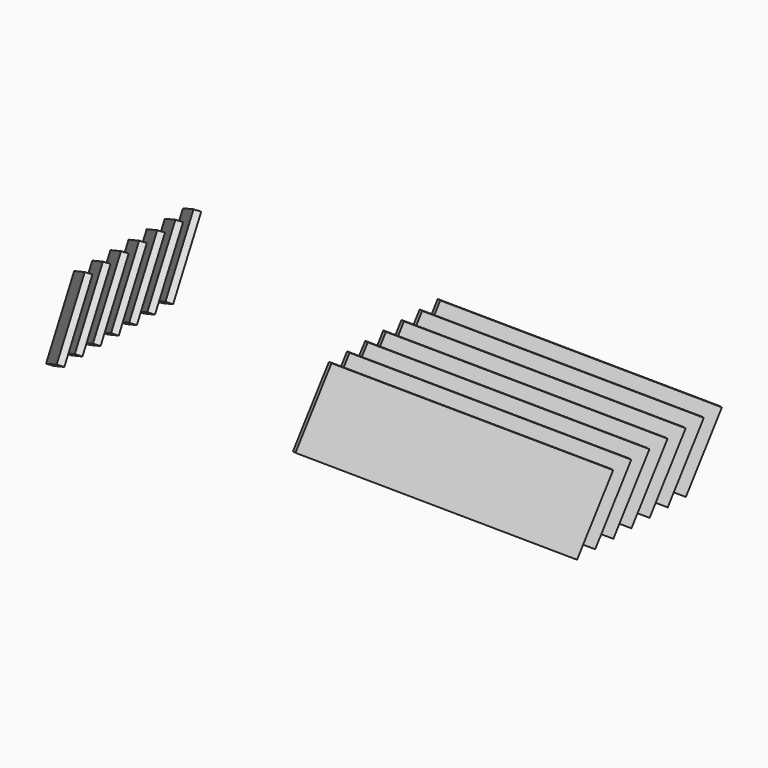
from build123d import *

# Parameters (mm, degrees)
BOX036_W               = 30
BOX036_H               = 2.5
BOX036_DEPTH           = 100
BOX036_ROLL_ANGLE      = 30.72405
BOX036_PITCH_ANGLE     = 57.751092
BOX036_PLACEMENT_ANGLE = -95.67779
BOX037_W               = 30
BOX037_H               = 2.5
BOX037_DEPTH           = 100
BOX037_ROLL_ANGLE      = 30.72405
BOX037_PITCH_ANGLE     = 57.751092
BOX037_PLACEMENT_ANGLE = -95.67779
BOX038_W               = 30
BOX038_H               = 2.5
BOX038_DEPTH           = 100
BOX038_ROLL_ANGLE      = 30.72405
BOX038_PITCH_ANGLE     = 57.751092
BOX038_PLACEMENT_ANGLE = -95.67779
BOX039_W               = 30
BOX039_H               = 2.5
BOX039_DEPTH           = 100
BOX039_ROLL_ANGLE      = 30.72405
BOX039_PITCH_ANGLE     = 57.751092
BOX039_PLACEMENT_ANGLE = -95.67779
BOX040_W               = 30
BOX040_H               = 2.5
BOX040_DEPTH           = 100
BOX040_ROLL_ANGLE      = 30.72405
BOX040_PITCH_ANGLE     = 57.751092
BOX040_PLACEMENT_ANGLE = -95.67779
BOX041_W               = 30
BOX041_H               = 2.5
BOX041_DEPTH           = 100
BOX041_ROLL_ANGLE      = 30.72405
BOX041_PITCH_ANGLE     = 57.751092
BOX041_PLACEMENT_ANGLE = -95.67779
BOX035_W               = 30
BOX035_H               = 2.5
BOX035_DEPTH           = 100
BOX035_ROLL_ANGLE      = 30.72405
BOX035_PITCH_ANGLE     = 57.751092
BOX035_PLACEMENT_ANGLE = -95.67779
BOX015_W               = 30
BOX015_H               = 2.5
BOX015_DEPTH           = 100
BOX015_ROLL_ANGLE      = 30.72405
BOX015_PITCH_ANGLE     = 57.751092
BOX015_PLACEMENT_ANGLE = -95.67779
BOX016_W               = 30
BOX016_H               = 2.5
BOX016_DEPTH           = 100
BOX016_ROLL_ANGLE      = 30.72405
BOX016_PITCH_ANGLE     = 57.751092
BOX016_PLACEMENT_ANGLE = -95.67779
BOX017_W               = 30
BOX017_H               = 2.5
BOX017_DEPTH           = 100
BOX017_ROLL_ANGLE      = 30.72405
BOX017_PITCH_ANGLE     = 57.751092
BOX017_PLACEMENT_ANGLE = -95.67779
BOX018_W               = 30
BOX018_H               = 2.5
BOX018_DEPTH           = 100
BOX018_ROLL_ANGLE      = 30.72405
BOX018_PITCH_ANGLE     = 57.751092
BOX018_PLACEMENT_ANGLE = -95.67779
BOX019_W               = 30
BOX019_H               = 2.5
BOX019_DEPTH           = 100
BOX019_ROLL_ANGLE      = 30.72405
BOX019_PITCH_ANGLE     = 57.751092
BOX019_PLACEMENT_ANGLE = -95.67779
BOX020_W               = 30
BOX020_H               = 2.5
BOX020_DEPTH           = 100
BOX020_ROLL_ANGLE      = 30.72405
BOX020_PITCH_ANGLE     = 57.751092
BOX020_PLACEMENT_ANGLE = -95.67779
BOX014_W               = 30
BOX014_H               = 2.5
BOX014_DEPTH           = 100
BOX014_ROLL_ANGLE      = 30.72405
BOX014_PITCH_ANGLE     = 57.751092
BOX014_PLACEMENT_ANGLE = -95.67779


with BuildPart() as cube036:
    # Box036 → Box036 (new body)
    with BuildSketch(Plane.XY):
        with Locations((15, 1.25)):
            Rectangle(BOX036_W, BOX036_H)
    extrude(amount=BOX036_DEPTH)


with BuildPart() as cube036_1:
    # Box036 roll: moved
    add(cube036.part.rotate(Axis((0, 0, 0), (1, 0, 0)), BOX036_ROLL_ANGLE))


with BuildPart() as cube036_2:
    # Box036 pitch: moved
    add(cube036_1.part.rotate(Axis((0, 0, 0), (0, 1, 0)), BOX036_PITCH_ANGLE))


with BuildPart() as cube036_3:
    # Box036 placement: moved
    add(cube036_2.part.moved(Location((105, 186, 0))).rotate(Axis((105, 186, 0), (0, 0, 1)), BOX036_PLACEMENT_ANGLE))


with BuildPart() as cube037:
    # Box037 → Box037 (new body)
    with BuildSketch(Plane.XY):
        with Locations((15, 1.25)):
            Rectangle(BOX037_W, BOX037_H)
    extrude(amount=BOX037_DEPTH)


with BuildPart() as cube037_1:
    # Box037 roll: moved
    add(cube037.part.rotate(Axis((0, 0, 0), (1, 0, 0)), BOX037_ROLL_ANGLE))


with BuildPart() as cube037_2:
    # Box037 pitch: moved
    add(cube037_1.part.rotate(Axis((0, 0, 0), (0, 1, 0)), BOX037_PITCH_ANGLE))


with BuildPart() as cube037_3:
    # Box037 placement: moved
    add(cube037_2.part.moved(Location((105, 195, 0))).rotate(Axis((105, 195, 0), (0, 0, 1)), BOX037_PLACEMENT_ANGLE))


with BuildPart() as cube038:
    # Box038 → Box038 (new body)
    with BuildSketch(Plane.XY):
        with Locations((15, 1.25)):
            Rectangle(BOX038_W, BOX038_H)
    extrude(amount=BOX038_DEPTH)


with BuildPart() as cube038_1:
    # Box038 roll: moved
    add(cube038.part.rotate(Axis((0, 0, 0), (1, 0, 0)), BOX038_ROLL_ANGLE))


with BuildPart() as cube038_2:
    # Box038 pitch: moved
    add(cube038_1.part.rotate(Axis((0, 0, 0), (0, 1, 0)), BOX038_PITCH_ANGLE))


with BuildPart() as cube038_3:
    # Box038 placement: moved
    add(cube038_2.part.moved(Location((105, 204, 0))).rotate(Axis((105, 204, 0), (0, 0, 1)), BOX038_PLACEMENT_ANGLE))


with BuildPart() as cube039:
    # Box039 → Box039 (new body)
    with BuildSketch(Plane.XY):
        with Locations((15, 1.25)):
            Rectangle(BOX039_W, BOX039_H)
    extrude(amount=BOX039_DEPTH)


with BuildPart() as cube039_1:
    # Box039 roll: moved
    add(cube039.part.rotate(Axis((0, 0, 0), (1, 0, 0)), BOX039_ROLL_ANGLE))


with BuildPart() as cube039_2:
    # Box039 pitch: moved
    add(cube039_1.part.rotate(Axis((0, 0, 0), (0, 1, 0)), BOX039_PITCH_ANGLE))


with BuildPart() as cube039_3:
    # Box039 placement: moved
    add(cube039_2.part.moved(Location((105, 213, 0))).rotate(Axis((105, 213, 0), (0, 0, 1)), BOX039_PLACEMENT_ANGLE))


with BuildPart() as cube040:
    # Box040 → Box040 (new body)
    with BuildSketch(Plane.XY):
        with Locations((15, 1.25)):
            Rectangle(BOX040_W, BOX040_H)
    extrude(amount=BOX040_DEPTH)


with BuildPart() as cube040_1:
    # Box040 roll: moved
    add(cube040.part.rotate(Axis((0, 0, 0), (1, 0, 0)), BOX040_ROLL_ANGLE))


with BuildPart() as cube040_2:
    # Box040 pitch: moved
    add(cube040_1.part.rotate(Axis((0, 0, 0), (0, 1, 0)), BOX040_PITCH_ANGLE))


with BuildPart() as cube040_3:
    # Box040 placement: moved
    add(cube040_2.part.moved(Location((105, 222, 0))).rotate(Axis((105, 222, 0), (0, 0, 1)), BOX040_PLACEMENT_ANGLE))


with BuildPart() as cube041:
    # Box041 → Box041 (new body)
    with BuildSketch(Plane.XY):
        with Locations((15, 1.25)):
            Rectangle(BOX041_W, BOX041_H)
    extrude(amount=BOX041_DEPTH)


with BuildPart() as cube041_1:
    # Box041 roll: moved
    add(cube041.part.rotate(Axis((0, 0, 0), (1, 0, 0)), BOX041_ROLL_ANGLE))


with BuildPart() as cube041_2:
    # Box041 pitch: moved
    add(cube041_1.part.rotate(Axis((0, 0, 0), (0, 1, 0)), BOX041_PITCH_ANGLE))


with BuildPart() as cube041_3:
    # Box041 placement: moved
    add(cube041_2.part.moved(Location((105, 231, 0))).rotate(Axis((105, 231, 0), (0, 0, 1)), BOX041_PLACEMENT_ANGLE))


with BuildPart() as vent005:
    # Box035 → Box035 (new body)
    with BuildSketch(Plane.XY):
        with Locations((15, 1.25)):
            Rectangle(BOX035_W, BOX035_H)
    extrude(amount=BOX035_DEPTH)


with BuildPart() as vent005_1:
    # Box035 roll: moved
    add(vent005.part.rotate(Axis((0, 0, 0), (1, 0, 0)), BOX035_ROLL_ANGLE))


with BuildPart() as vent005_2:
    # Box035 pitch: moved
    add(vent005_1.part.rotate(Axis((0, 0, 0), (0, 1, 0)), BOX035_PITCH_ANGLE))


with BuildPart() as vent005_3:
    # Box035 placement: moved
    add(vent005_2.part.moved(Location((105, 177, 0))).rotate(Axis((105, 177, 0), (0, 0, 1)), BOX035_PLACEMENT_ANGLE))

    # Fusion008: union Cube036, Cube037, Cube038, Cube039, Cube040, Cube041
    add(cube036_3.part)
    add(cube037_3.part)
    add(cube038_3.part)
    add(cube039_3.part)
    add(cube040_3.part)
    add(cube041_3.part)


with BuildPart() as vent005_4:
    # Fusion008 placement: moved
    add(vent005_3.part.moved(Location((0, 196, 11))))


with BuildPart() as part_mirroring002:
    # Part__Mirroring002: instance of Vent005
    add(vent005_4.part.mirror(Plane(origin=(0, 0, 0), x_dir=(0, -1, 0), z_dir=(1, 0, 0))))


with BuildPart() as cube015:
    # Box015 → Box015 (new body)
    with BuildSketch(Plane.XY):
        with Locations((15, 1.25)):
            Rectangle(BOX015_W, BOX015_H)
    extrude(amount=BOX015_DEPTH)


with BuildPart() as cube015_1:
    # Box015 roll: moved
    add(cube015.part.rotate(Axis((0, 0, 0), (1, 0, 0)), BOX015_ROLL_ANGLE))


with BuildPart() as cube015_2:
    # Box015 pitch: moved
    add(cube015_1.part.rotate(Axis((0, 0, 0), (0, 1, 0)), BOX015_PITCH_ANGLE))


with BuildPart() as cube015_3:
    # Box015 placement: moved
    add(cube015_2.part.moved(Location((105, 186, 0))).rotate(Axis((105, 186, 0), (0, 0, 1)), BOX015_PLACEMENT_ANGLE))


with BuildPart() as cube016:
    # Box016 → Box016 (new body)
    with BuildSketch(Plane.XY):
        with Locations((15, 1.25)):
            Rectangle(BOX016_W, BOX016_H)
    extrude(amount=BOX016_DEPTH)


with BuildPart() as cube016_1:
    # Box016 roll: moved
    add(cube016.part.rotate(Axis((0, 0, 0), (1, 0, 0)), BOX016_ROLL_ANGLE))


with BuildPart() as cube016_2:
    # Box016 pitch: moved
    add(cube016_1.part.rotate(Axis((0, 0, 0), (0, 1, 0)), BOX016_PITCH_ANGLE))


with BuildPart() as cube016_3:
    # Box016 placement: moved
    add(cube016_2.part.moved(Location((105, 195, 0))).rotate(Axis((105, 195, 0), (0, 0, 1)), BOX016_PLACEMENT_ANGLE))


with BuildPart() as cube017:
    # Box017 → Box017 (new body)
    with BuildSketch(Plane.XY):
        with Locations((15, 1.25)):
            Rectangle(BOX017_W, BOX017_H)
    extrude(amount=BOX017_DEPTH)


with BuildPart() as cube017_1:
    # Box017 roll: moved
    add(cube017.part.rotate(Axis((0, 0, 0), (1, 0, 0)), BOX017_ROLL_ANGLE))


with BuildPart() as cube017_2:
    # Box017 pitch: moved
    add(cube017_1.part.rotate(Axis((0, 0, 0), (0, 1, 0)), BOX017_PITCH_ANGLE))


with BuildPart() as cube017_3:
    # Box017 placement: moved
    add(cube017_2.part.moved(Location((105, 204, 0))).rotate(Axis((105, 204, 0), (0, 0, 1)), BOX017_PLACEMENT_ANGLE))


with BuildPart() as cube018:
    # Box018 → Box018 (new body)
    with BuildSketch(Plane.XY):
        with Locations((15, 1.25)):
            Rectangle(BOX018_W, BOX018_H)
    extrude(amount=BOX018_DEPTH)


with BuildPart() as cube018_1:
    # Box018 roll: moved
    add(cube018.part.rotate(Axis((0, 0, 0), (1, 0, 0)), BOX018_ROLL_ANGLE))


with BuildPart() as cube018_2:
    # Box018 pitch: moved
    add(cube018_1.part.rotate(Axis((0, 0, 0), (0, 1, 0)), BOX018_PITCH_ANGLE))


with BuildPart() as cube018_3:
    # Box018 placement: moved
    add(cube018_2.part.moved(Location((105, 213, 0))).rotate(Axis((105, 213, 0), (0, 0, 1)), BOX018_PLACEMENT_ANGLE))


with BuildPart() as cube019:
    # Box019 → Box019 (new body)
    with BuildSketch(Plane.XY):
        with Locations((15, 1.25)):
            Rectangle(BOX019_W, BOX019_H)
    extrude(amount=BOX019_DEPTH)


with BuildPart() as cube019_1:
    # Box019 roll: moved
    add(cube019.part.rotate(Axis((0, 0, 0), (1, 0, 0)), BOX019_ROLL_ANGLE))


with BuildPart() as cube019_2:
    # Box019 pitch: moved
    add(cube019_1.part.rotate(Axis((0, 0, 0), (0, 1, 0)), BOX019_PITCH_ANGLE))


with BuildPart() as cube019_3:
    # Box019 placement: moved
    add(cube019_2.part.moved(Location((105, 222, 0))).rotate(Axis((105, 222, 0), (0, 0, 1)), BOX019_PLACEMENT_ANGLE))


with BuildPart() as cube020:
    # Box020 → Box020 (new body)
    with BuildSketch(Plane.XY):
        with Locations((15, 1.25)):
            Rectangle(BOX020_W, BOX020_H)
    extrude(amount=BOX020_DEPTH)


with BuildPart() as cube020_1:
    # Box020 roll: moved
    add(cube020.part.rotate(Axis((0, 0, 0), (1, 0, 0)), BOX020_ROLL_ANGLE))


with BuildPart() as cube020_2:
    # Box020 pitch: moved
    add(cube020_1.part.rotate(Axis((0, 0, 0), (0, 1, 0)), BOX020_PITCH_ANGLE))


with BuildPart() as cube020_3:
    # Box020 placement: moved
    add(cube020_2.part.moved(Location((105, 231, 0))).rotate(Axis((105, 231, 0), (0, 0, 1)), BOX020_PLACEMENT_ANGLE))


with BuildPart() as vent03_both:
    # Box014 → Box014 (new body)
    with BuildSketch(Plane.XY):
        with Locations((15, 1.25)):
            Rectangle(BOX014_W, BOX014_H)
    extrude(amount=BOX014_DEPTH)


with BuildPart() as vent03_both_1:
    # Box014 roll: moved
    add(vent03_both.part.rotate(Axis((0, 0, 0), (1, 0, 0)), BOX014_ROLL_ANGLE))


with BuildPart() as vent03_both_2:
    # Box014 pitch: moved
    add(vent03_both_1.part.rotate(Axis((0, 0, 0), (0, 1, 0)), BOX014_PITCH_ANGLE))


with BuildPart() as vent03_both_3:
    # Box014 placement: moved
    add(vent03_both_2.part.moved(Location((105, 177, 0))).rotate(Axis((105, 177, 0), (0, 0, 1)), BOX014_PLACEMENT_ANGLE))

    # Fusion003: union Cube015, Cube016, Cube017, Cube018, Cube019, Cube020
    add(cube015_3.part)
    add(cube016_3.part)
    add(cube017_3.part)
    add(cube018_3.part)
    add(cube019_3.part)
    add(cube020_3.part)


with BuildPart() as vent03_both_4:
    # Fusion003 placement: moved
    add(vent03_both_3.part.moved(Location((0, 196, 11))))

    # Fusion009: union Part__Mirroring002
    add(part_mirroring002.part)


solid = vent03_both_4.part
